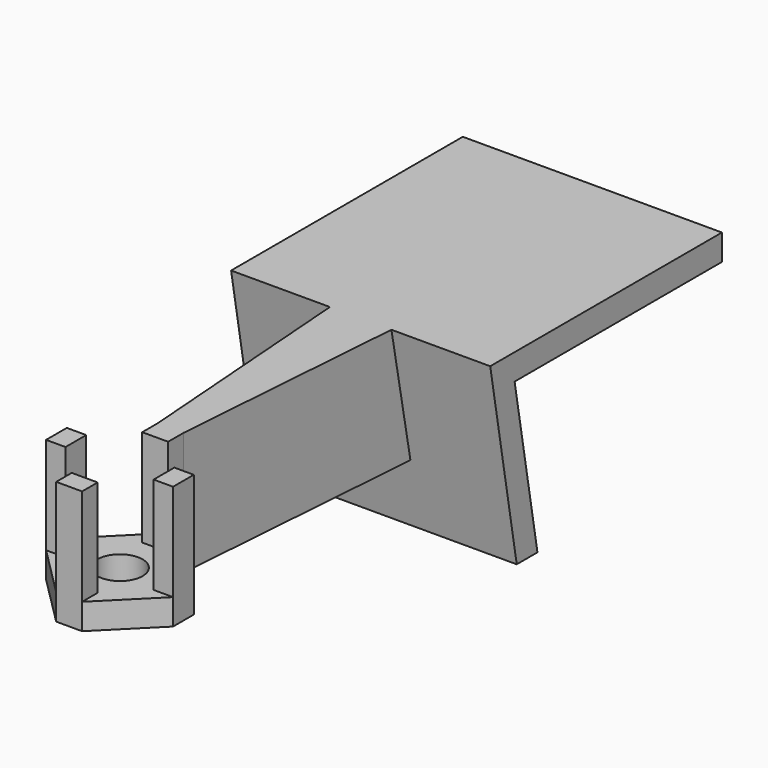
from build123d import *

# Parameters (mm, degrees)
SKETCH_R           = 3.5
PAD_DEPTH          = 4
SKETCH001_W        = 4
SKETCH001_H        = 3
PAD001_DEPTH       = 15
POLARPATTERN_COUNT = 4
PAD002_DEPTH       = 15
PAD004_DEPTH       = 4
PAD005_DEPTH       = 20


with BuildPart() as part:
    # Sketch → Pad (new body)
    with BuildSketch(Plane.XY):
        Polygon((-9.8, 2), (-9.8, -2), (-2, -9.8), (2, -9.8), (9.8, -2), (9.8, 2), (2, 9.8), (-2, 9.8), align=None)
        Circle(SKETCH_R, mode=Mode.SUBTRACT)
    extrude(amount=-PAD_DEPTH)

    # Sketch001 → Pad001 (join)
    with BuildSketch(Plane.XY):
        with Locations((0, 8.3)):
            Rectangle(SKETCH001_W, SKETCH001_H)
    pad001 = extrude(amount=PAD001_DEPTH)

    # PolarPattern: Pad001 ×4 about axis
    polarpattern_axis = Axis((0, 0, 0), (0, 0, 1))
    for i in range(1, POLARPATTERN_COUNT):
        add(pad001.rotate(polarpattern_axis, i * 360 / POLARPATTERN_COUNT))

    # Sketch002 → Pad002 (join)
    with BuildSketch(Plane.XY):
        Polygon((-2, 9.8), (-5, 49.8), (5, 49.8), (2, 9.8), align=None)
    extrude(amount=PAD002_DEPTH)

    # Sketch002 → Pad004 (join)
    with BuildSketch(Plane.XY):
        Polygon((-2, 9.8), (-5, 49.8), (5, 49.8), (2, 9.8), align=None)
    extrude(amount=-PAD004_DEPTH)

    # Sketch003 → Pad005 (join, symmetric)
    with BuildSketch(Plane.YZ):
        Polygon((46.449787, 15), (91.155095, 15), (91.155095, 11), (51.155095, 11), (55.56327, -14), (51.56327, -14), align=None)
    extrude(amount=PAD005_DEPTH, both=True)


solid = part.part
